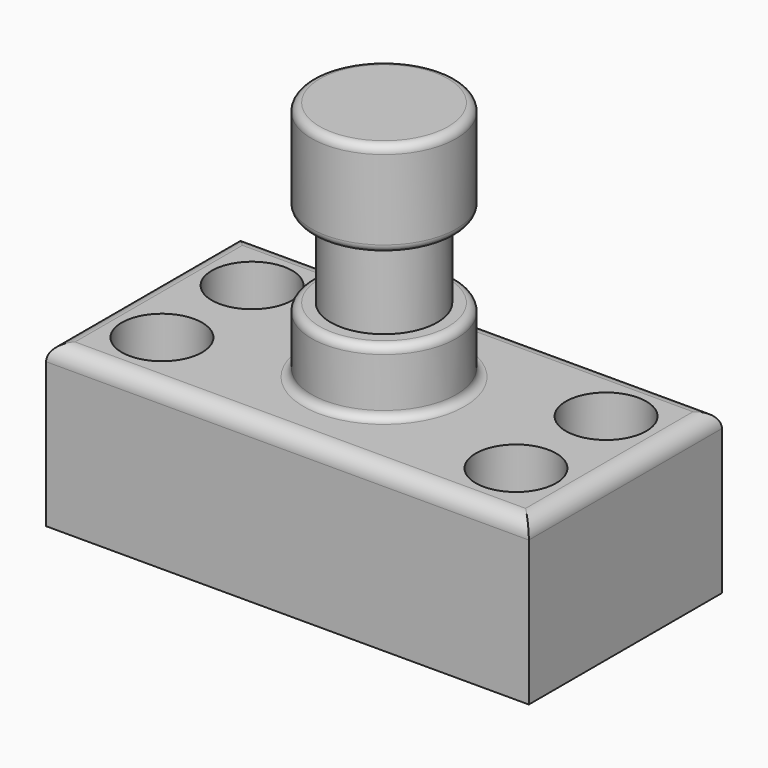
from build123d import *

# Parameters (mm, degrees)
F0_W     = 76.2
F0_H     = 38.1
F1_DEPTH = 25.4
F2_R     = 6.35
F3_DEPTH = 25.4
F4_R     = 11.43
F5_DEPTH = 38.1
F6_W     = 15.24
F6_H     = 12.7
F8_R     = 2.54
F9_R     = 1.27


with BuildPart() as f1:
    # F0 (on Top) → F1 (new body)
    with BuildSketch(Plane.XY):
        Rectangle(F0_W, F0_H)
    extrude(amount=F1_DEPTH)

    # F2 (on Top) → F3 (cut)
    with BuildSketch(Plane.XY):
        with Locations((-27.94, 8.89)):
            Circle(F2_R)
        with Locations((27.94, 8.89)):
            Circle(F2_R)
        with Locations((-27.94, -8.89)):
            Circle(F2_R)
        with Locations((27.94, -8.89)):
            Circle(F2_R)
    extrude(amount=F3_DEPTH, mode=Mode.SUBTRACT)

    # F4 (on face) → F5 (join)
    with BuildSketch(Plane.XY.offset(25.4)):
        Circle(F4_R)
    extrude(amount=F5_DEPTH)

    # F6 (on Front) → F7 (revolve, cut)
    with BuildSketch(Plane.XZ):
        with Locations((-16.0404087242, 42.0565381646)):
            Rectangle(F6_W, F6_H)
    revolve(axis=Axis((0, 0, 25.4), (0, 0, -1)), mode=Mode.SUBTRACT)

    # F8
    f8_edges = [f1.edges().sort_by_distance(p)[0] for p in [
        (-38.1, 0, 25.4),
        (0, -19.05, 25.4),
        (38.1, 0, 25.4),
        (0, 19.05, 25.4),
    ]]
    fillet(f8_edges, radius=F8_R)

    # F9
    f9_edges = [f1.edges().sort_by_distance(p)[0] for p in [
        (-11.43, 0, 63.5),
        (-11.43, 0, 35.706538),
        (-11.43, 0, 48.406538),
        (-11.43, 0, 25.4),
    ]]
    fillet(f9_edges, radius=F9_R)


solid = f1.part
